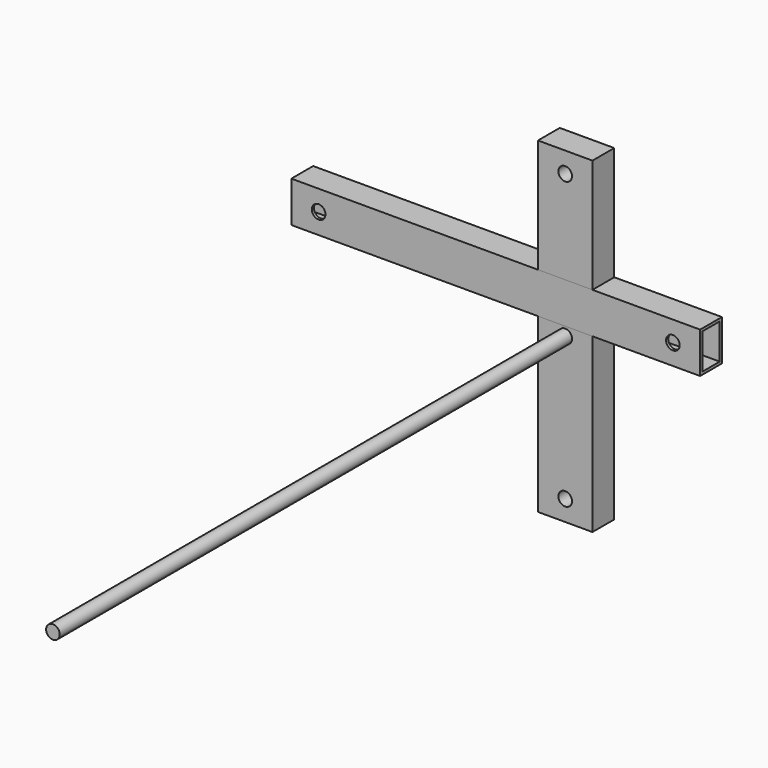
from build123d import *

# Parameters (mm, degrees)
F0_W     = 50.8
F0_H     = 304.8
F0_R     = 6.35
F1_DEPTH = 12.7
F2_W     = 381
F2_H     = 38.1
F2_R     = 6.35
F3_DEPTH = 12.7
F4_T     = -2.54
F5_R     = 6.35
F6_DEPTH = 609.6


with BuildPart() as f1:
    # F0 (on Front) → F1 (new body, symmetric)
    with BuildSketch(Plane.XZ):
        Rectangle(F0_W, F0_H)
        with Locations((0, -133.35)):
            Circle(F0_R, mode=Mode.SUBTRACT)
        with Locations((0, 133.35)):
            Circle(F0_R, mode=Mode.SUBTRACT)
    extrude(amount=F1_DEPTH, both=True)


with BuildPart() as f3:
    # F2 (on Front) → F3 (new body, symmetric)
    with BuildSketch(Plane.XZ):
        with Locations((-64.737284, 27.311547)):
            Rectangle(F2_W, F2_H)
        with Locations((-229.837284, 27.311547)):
            Circle(F2_R, mode=Mode.SUBTRACT)
        with Locations((100.362716, 27.311547)):
            Circle(F2_R, mode=Mode.SUBTRACT)
    extrude(amount=F3_DEPTH, both=True)

    # F4
    f4_openings = [f3.faces().sort_by_distance(p)[0] for p in [
        (-255.237284, 0, 27.311547),
        (-236.187284, 0, 27.311547),
        (125.762716, 0, 27.311547),
        (94.012716, 0, 27.311547),
    ]]
    offset(amount=F4_T, openings=f4_openings)


with BuildPart() as f6:
    # F5 (on Front) → F6 (new body)
    with BuildSketch(Plane.XZ):
        Circle(F5_R)
    extrude(amount=F6_DEPTH)


solid = Compound([f1.part, f3.part, f6.part])
